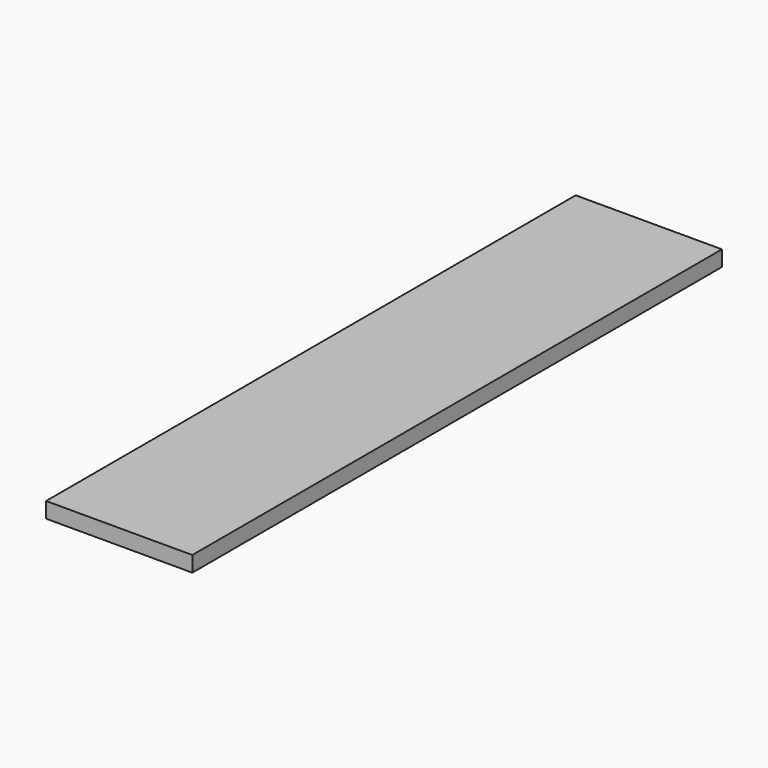
from build123d import *

# Parameters (mm, degrees)
F0_W     = 48.4505593777
F0_H     = 39.4315421581
F1_DEPTH = 600
F2_DEPTH = 1700
F3_DEPTH = 25
F4_DEPTH = 230


with BuildPart() as f1:
    # F0 (on Right) → F1 (new body)
    with BuildSketch(Plane.YZ):
        with Locations((-24.2252796888, 19.7157710791)):
            Rectangle(F0_W, F0_H)
    extrude(amount=-F1_DEPTH)

    # F2 (add): a face of the model
    f2_faces = [f1.faces().sort_by_distance(p)[0] for p in [
        (-300, 0, 19.7157710791),
    ]]
    extrude(f2_faces, amount=-F2_DEPTH)

    # F3 (cut): a face of the model
    f3_faces = [f1.faces().sort_by_distance(p)[0] for p in [
        (-300, -1700, 19.7157710791),
    ]]
    extrude(f3_faces, amount=-F3_DEPTH, mode=Mode.SUBTRACT)

    # F4 (cut): a face of the model
    f4_faces = [f1.faces().sort_by_distance(p)[0] for p in [
        (-600, -837.5, 19.7157710791),
    ]]
    extrude(f4_faces, amount=-F4_DEPTH, mode=Mode.SUBTRACT)


solid = f1.part
